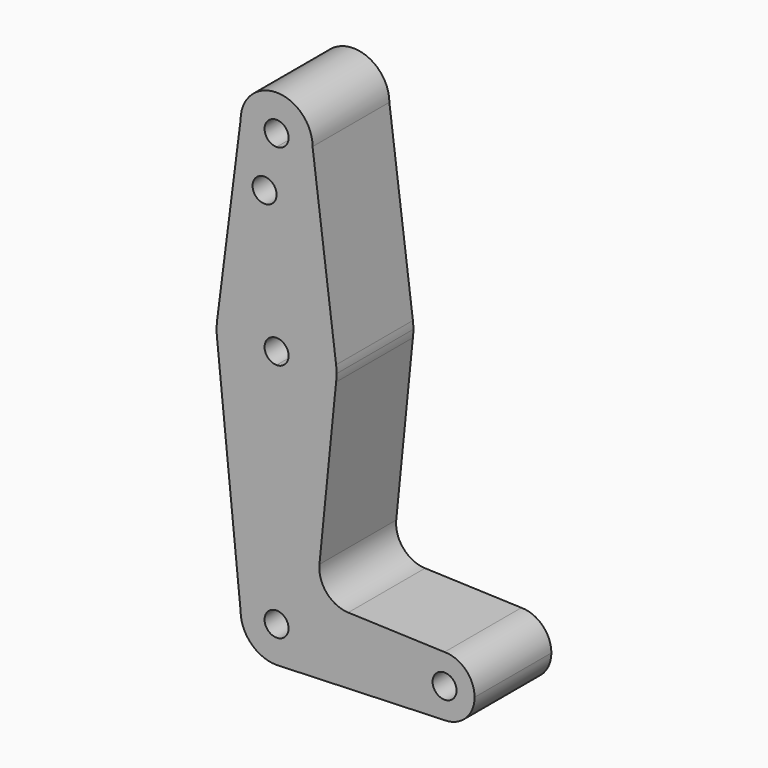
from build123d import *

# Parameters (mm, degrees)
F0_R     = 3.175
F1_DEPTH = 25.4


with BuildPart() as f1:
    # F0 (on Front) → F1 (new body)
    with BuildSketch(Plane.XZ):
        with BuildLine():
            ThreePointArc((0, 9.525), (-6.7351920908, 6.7351920908), (-9.525, 0))
            ThreePointArc((-9.525, 0), (-6.7351920908, -6.7351920908), (0, -9.525))
            Line((0, -9.525), (0.6794904459, -9.5007324841))
            ThreePointArc((0.6794904459, -9.5007324841), (6.9712901065, -6.4905114784), (9.525, 0))
            Line((9.525, 0), (3.175, 0))
            ThreePointArc((3.175, 0), (-2.2450640303, -2.2450640303), (0, 3.175))
            Line((0, 3.175), (0, 9.525))
        make_face()
        with BuildLine():
            Line((-15.7474569047, 61.4917106696), (-9.525, 0))
            ThreePointArc((-9.525, 0), (-6.7351920908, 6.7351920908), (0, 9.525))
            Line((0, 9.525), (0, 47.625))
            ThreePointArc((0, 47.625), (-10.4912828548, 51.5857812233), (-15.7474569047, 61.4917106696))
        make_face()
        with BuildLine():
            Line((0.6794904459, -9.5007324841), (0, -9.525))
            ThreePointArc((0, -9.525), (0.3399618281, -9.5189311877), (0.6794904459, -9.5007324841))
        make_face()
        with BuildLine():
            Line((0, 47.625), (0, 9.525))
            ThreePointArc((0, 9.525), (6.7351920908, 6.7351920908), (9.525, 0))
            Line((9.525, 0), (36.5125, 0))
            ThreePointArc((36.5125, 0), (38.8373399243, 5.6126600757), (44.45, 7.9375))
            Line((44.45, 7.9375), (18.9647942191, 8.8511945514))
            ThreePointArc((18.9647942191, 8.8511945514), (13.2592410586, 11.5693613748), (11.3392208, 17.5905979549))
            Line((11.3392208, 17.5905979549), (15.7474569047, 61.4917106696))
            ThreePointArc((15.7474569047, 61.4917106696), (10.4912828548, 51.5857812233), (0, 47.625))
        make_face()
        with BuildLine():
            ThreePointArc((-15.7474569047, 65.5082893304), (-15.875, 63.5), (-15.7474569047, 61.4917106696))
            ThreePointArc((-15.7474569047, 61.4917106696), (-10.4912828548, 51.5857812233), (0, 47.625))
            Line((0, 47.625), (0, 60.325))
            ThreePointArc((0, 60.325), (-3.175, 63.5), (0, 66.675))
            Line((0, 66.675), (0, 79.375))
            ThreePointArc((0, 79.375), (-10.4912828548, 75.4142187767), (-15.7474569047, 65.5082893304))
        make_face()
        with BuildLine():
            ThreePointArc((9.525, 0), (6.9712901065, -6.4905114784), (0.6794904459, -9.5007324841))
            Line((0.6794904459, -9.5007324841), (44.45, -7.9375))
            ThreePointArc((44.45, -7.9375), (38.8373399243, -5.6126600757), (36.5125, 0))
            Line((36.5125, 0), (9.525, 0))
        make_face()
        with BuildLine():
            Line((0, 60.325), (0, 47.625))
            ThreePointArc((0, 47.625), (10.4912828548, 51.5857812233), (15.7474569047, 61.4917106696))
            ThreePointArc((15.7474569047, 61.4917106696), (15.8430821396, 62.4938323604), (15.875, 63.5))
            ThreePointArc((15.875, 63.5), (15.8430821396, 64.5061676396), (15.7474569047, 65.5082893304))
            ThreePointArc((15.7474569047, 65.5082893304), (10.4912828548, 75.4142187767), (0, 79.375))
            Line((0, 79.375), (0, 66.675))
            ThreePointArc((0, 66.675), (2.2450640303, 65.7450640303), (3.175, 63.5))
            ThreePointArc((3.175, 63.5), (2.2450640303, 61.2549359697), (0, 60.325))
        make_face()
        with BuildLine():
            Line((-9.525, 114.3), (-15.7474569047, 65.5082893304))
            ThreePointArc((-15.7474569047, 65.5082893304), (-10.4912828548, 75.4142187767), (0, 79.375))
            Line((0, 79.375), (0, 100.0252))
            Line((0, 100.0252), (0, 104.775))
            ThreePointArc((0, 104.775), (-6.7351920908, 107.5648079092), (-9.525, 114.3))
        make_face()
        with Locations((-3.175, 100.0252)):
            Circle(F0_R, mode=Mode.SUBTRACT)
        with BuildLine():
            ThreePointArc((36.5125, 0), (38.8373399243, -5.6126600757), (44.45, -7.9375))
            ThreePointArc((44.45, -7.9375), (50.0626600757, -5.6126600757), (52.3875, 0))
            ThreePointArc((52.3875, 0), (50.0626600757, 5.6126600757), (44.45, 7.9375))
            ThreePointArc((44.45, 7.9375), (38.8373399243, 5.6126600757), (36.5125, 0))
        make_face()
        with BuildLine():
            ThreePointArc((47.625, 0), (44.45, -3.175), (41.275, 0))
            ThreePointArc((41.275, 0), (44.45, 3.175), (47.625, 0))
        make_face(mode=Mode.SUBTRACT)
        with BuildLine():
            Line((0, 100.0252), (0, 79.375))
            ThreePointArc((0, 79.375), (10.4912828548, 75.4142187767), (15.7474569047, 65.5082893304))
            Line((15.7474569047, 65.5082893304), (9.525, 114.3))
            ThreePointArc((9.525, 114.3), (6.7351920908, 107.5648079092), (0, 104.775))
            Line((0, 104.775), (0, 100.0252))
        make_face()
        with BuildLine():
            ThreePointArc((9.525, 114.3), (0, 123.825), (-9.525, 114.3))
            ThreePointArc((-9.525, 114.3), (-6.7351920908, 107.5648079092), (0, 104.775))
            ThreePointArc((0, 104.775), (6.7351920908, 107.5648079092), (9.525, 114.3))
        make_face()
        with BuildLine():
            ThreePointArc((3.175, 114.3), (2.2450640303, 112.0549359697), (0, 111.125))
            ThreePointArc((0, 111.125), (-2.2450640303, 116.5450640303), (3.175, 114.3))
        make_face(mode=Mode.SUBTRACT)
        with BuildLine():
            ThreePointArc((9.525, 0), (6.7351920908, 6.7351920908), (0, 9.525))
            Line((0, 9.525), (0, 3.175))
            ThreePointArc((0, 3.175), (2.2450640303, 2.2450640303), (3.175, 0))
            Line((3.175, 0), (9.525, 0))
        make_face()
    extrude(amount=F1_DEPTH)


solid = f1.part
